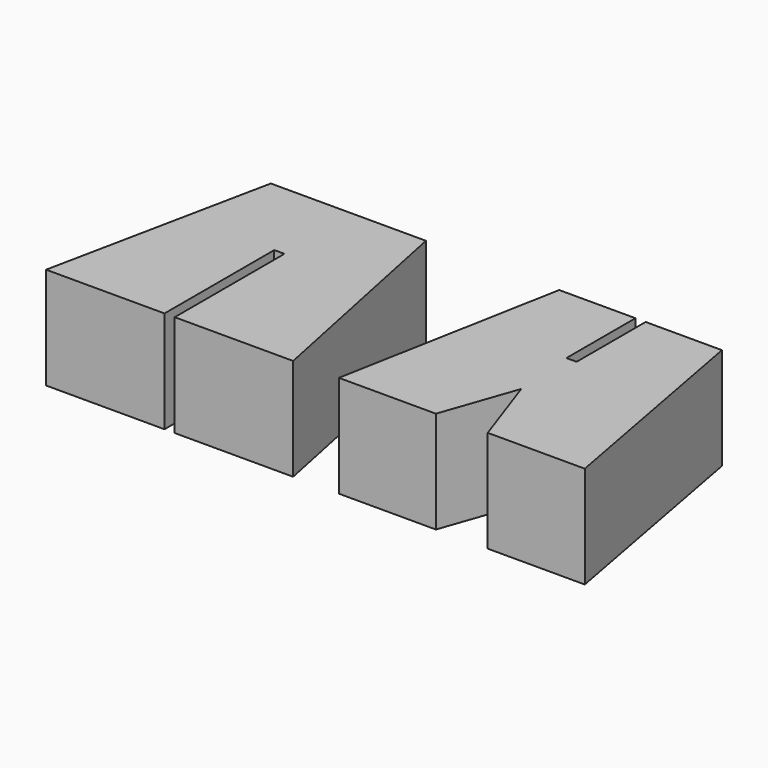
from build123d import *

# Parameters (mm, degrees)
F1_DEPTH = 25.4


with BuildPart() as f1:
    # F0 (on Top) → F1 (new body)
    with BuildSketch(Plane.XY):
        Polygon((-8.312615, 0), (-19.762661, 55.6514), (-58.390822, 55.6514), (-69.840869, 0), (-40.346742, 0), (-40.346742, 34.163), (-37.806742, 34.163), (-37.806742, 0), align=None)
        Polygon((13.430934, 55.642445), (3.069927, 0), (27.245611, 0), (33.696111, 18.515165), (40.146612, 0), (64.322295, 0), (53.961288, 55.642445), (34.966111, 55.642445), (34.966111, 34.154045), (32.426111, 34.154045), (32.426111, 55.642445), align=None)
    extrude(amount=F1_DEPTH)


solid = f1.part
